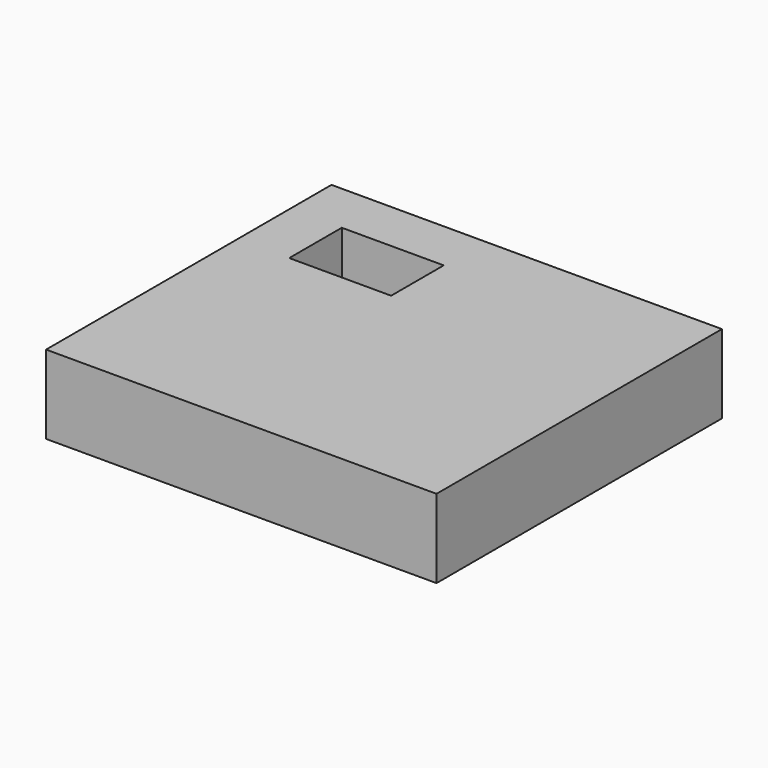
from build123d import *

# Parameters (mm, degrees)
F1_W     = 73.41028
F1_H     = 38.70118
F2_DEPTH = 25.4
F0_W     = 126.091852
F0_H     = 115.206472
F3_DEPTH = 25.4
F4_W     = 32.916133
F4_H     = 21.217024
F5_DEPTH = 25.4


with BuildPart() as f2:
    # F1 (on Top) → F2 (new body)
    with BuildSketch(Plane.XY):
        Rectangle(F1_W, F1_H)
    extrude(amount=F2_DEPTH)

    # F0 (on Top) → F3 (join)
    with BuildSketch(Plane.XY):
        Rectangle(F0_W, F0_H)
    extrude(amount=F3_DEPTH)

    # F4 (on Top) → F5 (cut)
    with BuildSketch(Plane.XY):
        with Locations((-29.931498, 30.338363)):
            Rectangle(F4_W, F4_H)
    extrude(amount=F5_DEPTH, mode=Mode.SUBTRACT)


solid = f2.part
